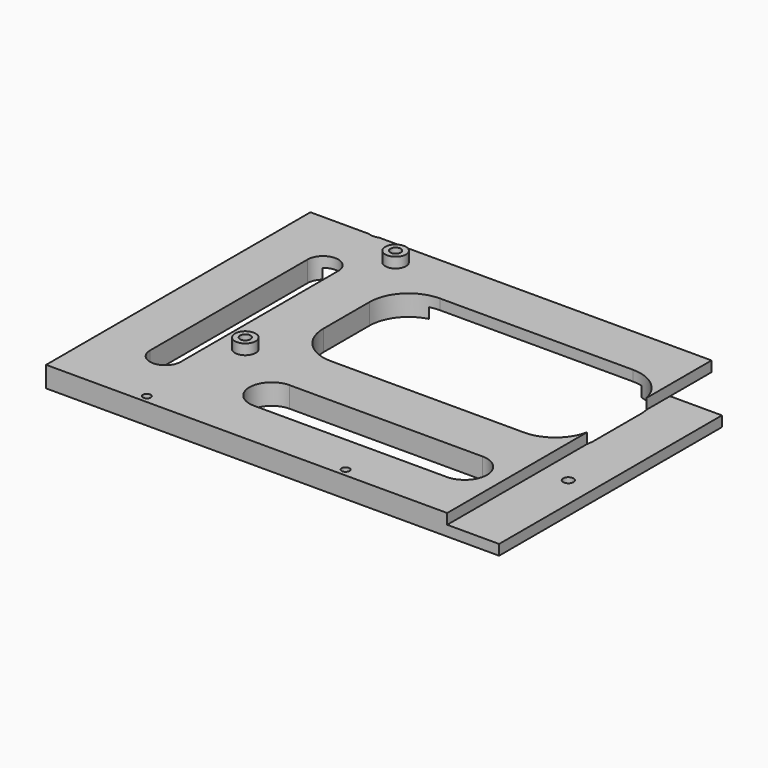
from build123d import *

# Parameters (mm, degrees)
F0_R      = 2
F1_DEPTH  = 8
F3_DEPTH  = 185
F5_DEPTH  = 5
F6_R      = 4
F6_R_2    = 2
F7_DEPTH  = 4
F9_DEPTH  = 340
F11_DEPTH = 320
F12_DEPTH = 190
F13_R     = 1.5
F14_DEPTH = 25


with BuildPart() as f1:
    # F0 (on Top) → F1 (new body)
    with BuildSketch(Plane.XY):
        Polygon((248.954638797, 211.431907829), (-84.8453715444, 211.431907829), (-84.8453715444, -69.5673050332), (248.954638797, -69.5673050332), (248.954638797, -32.408092171), align=None)
        with Locations((-44.415361203, -24.153092171)):
            Circle(F0_R, mode=Mode.SUBTRACT)
        with BuildLine():
            Line((-54.4153634839, 33.1772758796), (-54.4153634839, -42.7324894255))
            ThreePointArc((-54.4153634839, -42.7324894255), (-60.3474954333, -48.664621375), (-66.2796273828, -42.7324894255))
            Line((-66.2796273828, -42.7324894255), (-66.2796273828, 33.1772758796))
            ThreePointArc((-66.2796273828, 33.1772758796), (-60.3474954333, 39.109407829), (-54.4153634839, 33.1772758796))
        make_face(mode=Mode.SUBTRACT)
        with BuildLine():
            Line((-19.3557292535, -34.1526738179), (54.9850068476, -34.1526738179))
            ThreePointArc((54.9850068476, -34.1526738179), (63.5648240612, -42.7324878197), (54.9850100594, -51.3123050332))
            Line((54.9850100594, -51.3123050332), (-19.3557260418, -51.3123050332))
            ThreePointArc((-19.3557260418, -51.3123050332), (-27.9355464671, -42.7324910314), (-19.3557292535, -34.1526738179))
        make_face(mode=Mode.SUBTRACT)
        with Locations((80.044638797, -24.153092171)):
            Circle(F0_R, mode=Mode.SUBTRACT)
        with Locations((-44.415361203, 48.236907829)):
            Circle(F0_R, mode=Mode.SUBTRACT)
        with BuildLine():
            ThreePointArc((-34.415361203, 23.1772758796), (-30.0044971271, 33.8260437532), (-19.3557292535, 38.236907829))
            Line((-19.3557292535, 38.236907829), (54.9850068476, 38.236907829))
            ThreePointArc((54.9850068476, 38.236907829), (65.6337747212, 33.8260437532), (70.044638797, 23.1772758796))
            Line((70.044638797, 23.1772758796), (70.044638797, 0.9065397785))
            ThreePointArc((70.044638797, 0.9065397785), (65.6337747212, -9.7422280951), (54.9850068476, -14.153092171))
            Line((54.9850068476, -14.153092171), (-19.3557292535, -14.153092171))
            ThreePointArc((-19.3557292535, -14.153092171), (-30.0044971271, -9.7422280951), (-34.415361203, 0.9065397785))
            Line((-34.415361203, 0.9065397785), (-34.415361203, 23.1772758796))
        make_face(mode=Mode.SUBTRACT)
        with Locations((80.044638797, 48.236907829)):
            Circle(F0_R, mode=Mode.SUBTRACT)
        with BuildLine():
            ThreePointArc((212.4650068476, -34.1526738179), (221.0448240612, -42.7324878197), (212.4650100594, -51.3123050332))
            Line((212.4650100594, -51.3123050332), (105.1042739582, -51.3123050332))
            ThreePointArc((105.1042739582, -51.3123050332), (96.5244567447, -42.7324910314), (105.1042707465, -34.1526738179))
            Line((105.1042707465, -34.1526738179), (212.4650068476, -34.1526738179))
        make_face(mode=Mode.SUBTRACT)
        with Locations((237.524638797, -24.153092171)):
            Circle(F0_R, mode=Mode.SUBTRACT)
        with BuildLine():
            Line((90.044638797, 0.9065397785), (90.044638797, 23.1772758796))
            ThreePointArc((90.044638797, 23.1772758796), (94.4555028729, 33.8260437532), (105.1042707465, 38.236907829))
            Line((105.1042707465, 38.236907829), (212.4650068476, 38.236907829))
            ThreePointArc((212.4650068476, 38.236907829), (223.1137747212, 33.8260437532), (227.524638797, 23.1772758796))
            Line((227.524638797, 23.1772758796), (227.524638797, 0.9065397785))
            ThreePointArc((227.524638797, 0.9065397785), (223.1137747212, -9.7422280951), (212.4650068476, -14.153092171))
            Line((212.4650068476, -14.153092171), (105.1042707465, -14.153092171))
            ThreePointArc((105.1042707465, -14.153092171), (94.4555028729, -9.7422280951), (90.044638797, 0.9065397785))
        make_face(mode=Mode.SUBTRACT)
        with Locations((237.524638797, 48.236907829)):
            Circle(F0_R, mode=Mode.SUBTRACT)
        with BuildLine():
            Line((-54.4153634839, 180.316907829), (-54.4153634839, 63.2965397785))
            ThreePointArc((-54.4153634839, 63.2965397785), (-60.3474954333, 57.364407829), (-66.2796273828, 63.2965397785))
            Line((-66.2796273828, 63.2965397785), (-66.2796273828, 180.316907829))
            ThreePointArc((-66.2796273828, 180.316907829), (-60.3474954333, 186.2490397785), (-54.4153634839, 180.316907829))
        make_face(mode=Mode.SUBTRACT)
        with BuildLine():
            Line((-34.415361203, 73.2965397785), (-34.415361203, 178.1172758796))
            ThreePointArc((-34.415361203, 178.1172758796), (-30.0044971271, 188.7660437532), (-19.3557292535, 193.176907829))
            Line((-19.3557292535, 193.176907829), (54.9850068476, 193.176907829))
            ThreePointArc((54.9850068476, 193.176907829), (65.6337747212, 188.7660437532), (70.044638797, 178.1172758796))
            Line((70.044638797, 178.1172758796), (70.044638797, 73.2965397785))
            ThreePointArc((70.044638797, 73.2965397785), (65.6337747212, 62.6477719049), (54.9850068476, 58.236907829))
            Line((54.9850068476, 58.236907829), (-19.3557292535, 58.236907829))
            ThreePointArc((-19.3557292535, 58.236907829), (-30.0044971271, 62.6477719049), (-34.415361203, 73.2965397785))
        make_face(mode=Mode.SUBTRACT)
        with Locations((-44.415361203, 203.176907829)):
            Circle(F0_R, mode=Mode.SUBTRACT)
        with Locations((80.044638797, 203.176907829)):
            Circle(F0_R, mode=Mode.SUBTRACT)
        with BuildLine():
            ThreePointArc((227.524638797, 73.2965397785), (223.1137747212, 62.6477719049), (212.4650068476, 58.236907829))
            Line((212.4650068476, 58.236907829), (105.1042707465, 58.236907829))
            ThreePointArc((105.1042707465, 58.236907829), (94.4555028729, 62.6477719049), (90.044638797, 73.2965397785))
            Line((90.044638797, 73.2965397785), (90.044638797, 178.1172758796))
            ThreePointArc((90.044638797, 178.1172758796), (94.4555028729, 188.7660437532), (105.1042707465, 193.176907829))
            Line((105.1042707465, 193.176907829), (212.4650068476, 193.176907829))
            Line((212.4650068476, 193.176907829), (212.4650068476, 170.316907829))
            ThreePointArc((212.4650068476, 170.316907829), (223.1137747212, 165.9060437532), (227.524638797, 155.2572758796))
            Line((227.524638797, 155.2572758796), (227.524638797, 73.2965397785))
        make_face(mode=Mode.SUBTRACT)
        with Locations((237.524638797, 180.316907829)):
            Circle(F0_R, mode=Mode.SUBTRACT)
    extrude(amount=F1_DEPTH)

    # F2 (on face) → F3 (join)
    with BuildSketch(Plane.XY.offset(8)):
        Polygon((15.1546284556, 211.431907829), (-84.8453715444, 211.431907829), (-84.8453715444, 71.431907829), (-81.8453715444, 71.431907829), (-81.8453715444, 208.431907829), (15.1546284556, 208.431907829), align=None)
    extrude(amount=F3_DEPTH)

    # F4 (on face) → F5 (cut)
    with BuildSketch(Plane(origin=(-84.8453715444, 0, 0), x_dir=(0, -1, 0), z_dir=(-1, 0, 0))):
        Polygon((-169.016168882, 40), (-201.431907829, 143.5533241114), (-201.431907829, 40), align=None)
        Polygon((-71.431907829, 193), (-206.431907829, 193), (-158.5376649213, 40), (-71.431907829, 40), align=None)
    extrude(amount=-F5_DEPTH, mode=Mode.SUBTRACT)

    # F6 (on face) → F7 (join)
    with BuildSketch(Plane.XY.offset(8)):
        with Locations((-44.415361203, 48.236907829)):
            Circle(F6_R)
        with Locations((-44.415361203, 48.236907829)):
            Circle(F6_R_2, mode=Mode.SUBTRACT)
        with Locations((-44.415361203, -24.153092171)):
            Circle(F6_R)
        with Locations((-44.415361203, -24.153092171)):
            Circle(F6_R_2, mode=Mode.SUBTRACT)
    extrude(amount=F7_DEPTH)

    # F8 (on face) → F9 (cut)
    with BuildSketch(Plane.YZ.offset(248.954638797)):
        Polygon((57.7434247732, 4), (37.7434247732, 4), (37.7434247732, 0), (211.431907829, 0), (211.431907829, 8), (57.7434247732, 8), align=None)
    extrude(amount=-F9_DEPTH, mode=Mode.SUBTRACT)

    # F10 (on face) → F11 (cut)
    with BuildSketch(Plane(origin=(0, 211.431907829, 0), x_dir=(-1, 0, 0), z_dir=(0, 1, 0))):
        Polygon((-89.7116868198, 4), (-69.7116868198, 4), (-69.7116868198, 8), (-270.7538604736, 8), (-270.7538604736, -15.3804672882), (-89.7116868198, 0), align=None)
        Polygon((-89.7116868198, 4), (-69.7116868198, 4), (-69.7116868198, 8), (-270.7538604736, 8), (-270.7538604736, -15.3804672882), (-89.7116868198, 0), align=None)
    extrude(amount=-F11_DEPTH, mode=Mode.SUBTRACT)

    # F12 (cut): a face of the model
    f12_faces = [f1.faces().sort_by_distance(p)[0] for p in [
        (13.4341634022, 209.931907829, 8),
    ]]
    extrude(f12_faces, amount=-F12_DEPTH, mode=Mode.SUBTRACT)

    # F13 (on face) → F14 (cut)
    with BuildSketch(Plane.XY.offset(8)):
        with Locations((28.1716429389, -66.5673050332)):
            Circle(F13_R)
        with Locations((-48.4283570611, -66.5673050332)):
            Circle(F13_R)
    extrude(amount=-F14_DEPTH, mode=Mode.SUBTRACT)


solid = f1.part
